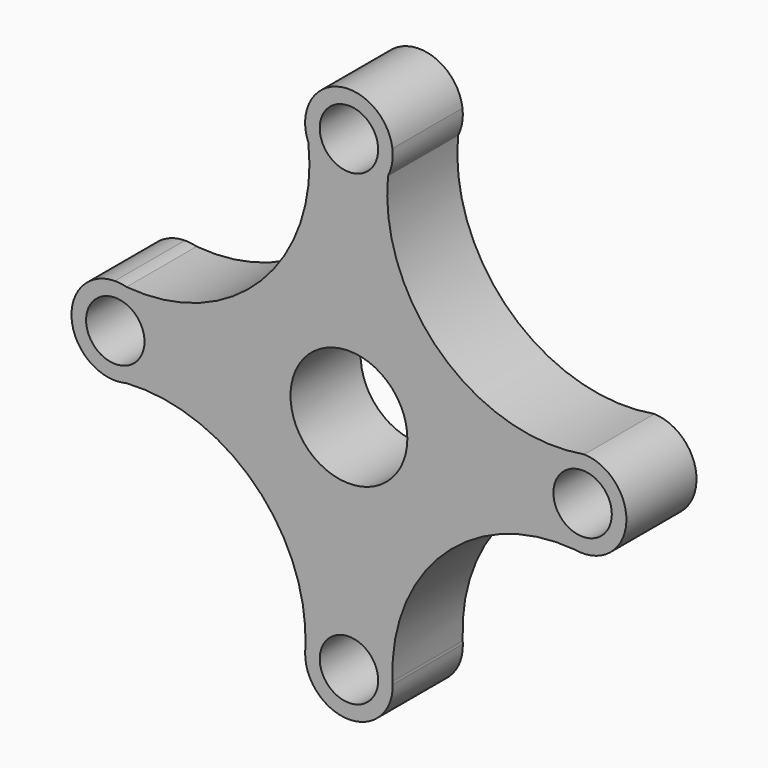
from build123d import *

# Parameters (mm, degrees)
F0_R     = 6.35
F0_R_2   = 12.7
F1_DEPTH = 19.05


with BuildPart() as f1:
    # F0 (on Front) → F1 (new body)
    with BuildSketch(Plane.XZ):
        with BuildLine():
            ThreePointArc((8.1951970624, 48.4191521254), (8.6925962921, 51.4785155363), (9.4476776194, 54.4846696678))
            ThreePointArc((9.4476776194, 54.4846696678), (-0.3678452563, 62.7913611678), (-9.5129776068, 53.7518829035))
            ThreePointArc((-9.5129776068, 53.7518829035), (-9.105870629, 51.7182031025), (-8.8148933877, 49.6646885861))
            ThreePointArc((-8.8148933877, 49.6646885861), (-18.9801247094, 20.0550418339), (-48.3450830058, 9.2032063734))
            ThreePointArc((-48.3450830058, 9.2032063734), (-49.6310461091, 9.3410493187), (-50.9113206254, 9.5243494643))
            ThreePointArc((-50.9113206254, 9.5243494643), (-60.3242028447, 0.1232281336), (-51.157702171, -9.5182810505))
            ThreePointArc((-51.157702171, -9.5182810505), (-49.8053904839, -9.34883094), (-48.4476969754, -9.2299672524))
            ThreePointArc((-48.4476969754, -9.2299672524), (-20.4440451587, -19.5224985104), (-9.4655981497, -47.2644237508))
            ThreePointArc((-9.4655981497, -47.2644237508), (-9.4916820209, -47.7748951909), (-9.5249092359, -48.2849514738))
            ThreePointArc((-9.5249092359, -48.2849514738), (0.0976909287, -57.8510323025), (9.5220524634, -48.0895905026))
            ThreePointArc((9.5220524634, -48.0895905026), (9.5043949342, -47.7951261873), (9.4891170098, -47.5005288242))
            ThreePointArc((9.4891170098, -47.5005288242), (20.6718117205, -19.4191724479), (49.1844510345, -9.3869924118))
            ThreePointArc((49.1844510345, -9.3869924118), (49.8007304882, -9.4469015023), (50.4159054165, -9.5172525632))
            ThreePointArc((50.4159054165, -9.5172525632), (60.3177759226, -0.370899566), (51.1577038356, 9.518280988))
            ThreePointArc((51.1577038356, 9.518280988), (20.0543256775, 18.6602601067), (8.4844203849, 48.9444673207))
            ThreePointArc((8.4844203849, 48.9444673207), (8.3439438254, 48.6795330559), (8.1951970624, 48.4191521254))
        make_face()
        with Locations((-50.8, 0)):
            Circle(F0_R, mode=Mode.SUBTRACT)
        with Locations((0, -48.3265332878)):
            Circle(F0_R, mode=Mode.SUBTRACT)
        Circle(F0_R_2, mode=Mode.SUBTRACT)
        with Locations((50.8, 0)):
            Circle(F0_R, mode=Mode.SUBTRACT)
        with Locations((0, 53.2734667122)):
            Circle(F0_R, mode=Mode.SUBTRACT)
        with BuildLine():
            ThreePointArc((8.4844203849, 48.9444673207), (8.859234067, 51.7331400649), (9.4476776194, 54.4846696678))
            ThreePointArc((9.4476776194, 54.4846696678), (8.6925962921, 51.4785155363), (8.1951970624, 48.4191521254))
            ThreePointArc((8.1951970624, 48.4191521254), (8.3439438254, 48.6795330559), (8.4844203849, 48.9444673207))
        make_face()
        with BuildLine():
            ThreePointArc((8.4844203849, 48.9444673207), (9.384215216, 51.6418632742), (9.4476776194, 54.4846696678))
            ThreePointArc((9.4476776194, 54.4846696678), (8.859234067, 51.7331400649), (8.4844203849, 48.9444673207))
        make_face()
        with BuildLine():
            ThreePointArc((-8.8148933877, 49.6646885861), (-9.105870629, 51.7182031025), (-9.5129776068, 53.7518829035))
            ThreePointArc((-9.5129776068, 53.7518829035), (-9.3890363267, 51.6698389951), (-8.8148933877, 49.6646885861))
        make_face()
        with BuildLine():
            ThreePointArc((-50.9113206254, 9.5243494643), (-49.6310461091, 9.3410493187), (-48.3450830058, 9.2032063734))
            ThreePointArc((-48.3450830058, 9.2032063734), (-49.6172514189, 9.4512819656), (-50.9113206254, 9.5243494643))
        make_face()
        with BuildLine():
            ThreePointArc((49.1844510345, -9.3869924118), (49.7980591297, -9.4721560108), (50.4159054165, -9.5172525632))
            ThreePointArc((50.4159054165, -9.5172525632), (49.8007304882, -9.4469015023), (49.1844510345, -9.3869924118))
        make_face()
        with BuildLine():
            ThreePointArc((-48.4476969754, -9.2299672524), (-49.8053904839, -9.34883094), (-51.157702171, -9.5182810505))
            ThreePointArc((-51.157702171, -9.5182810505), (-49.792334702, -9.471548746), (-48.4476969754, -9.2299672524))
        make_face()
        with BuildLine():
            ThreePointArc((9.5220524634, -48.0895905026), (9.5101466656, -47.7948045981), (9.4891170098, -47.5005288242))
            ThreePointArc((9.4891170098, -47.5005288242), (9.5043949342, -47.7951261873), (9.5220524634, -48.0895905026))
        make_face()
        with BuildLine():
            ThreePointArc((-9.5249092359, -48.2849514738), (-9.4916820209, -47.7748951909), (-9.4655981497, -47.2644237508))
            ThreePointArc((-9.4655981497, -47.2644237508), (-9.508954301, -47.7738913596), (-9.5249092359, -48.2849514738))
        make_face()
    extrude(amount=F1_DEPTH)


solid = f1.part
